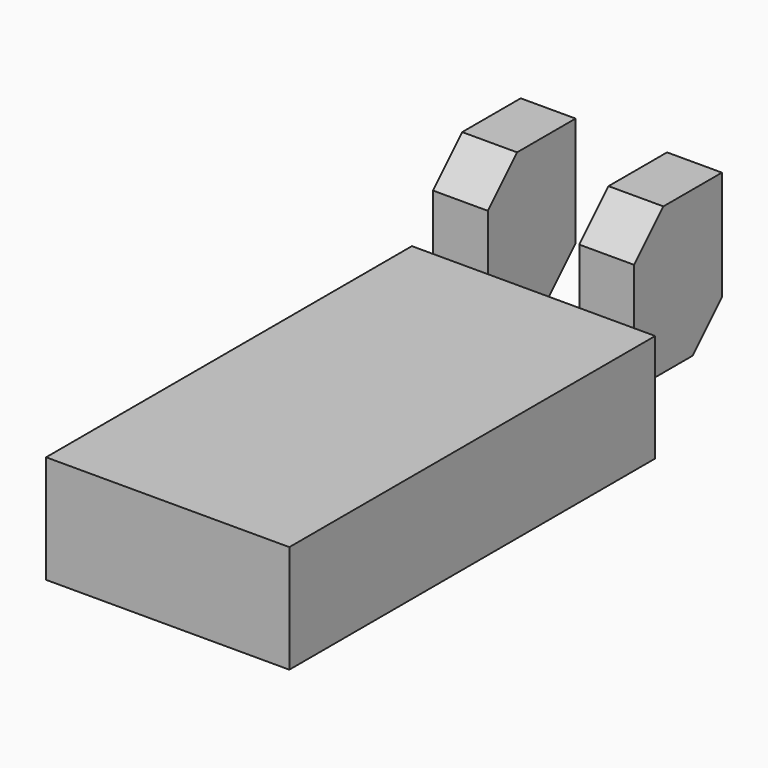
from build123d import *

# Parameters (mm, degrees)
F0_W     = 13.3
F0_H     = 5.9
F1_DEPTH = 25
F2_W     = 3
F2_H     = 8
F3_DEPTH = 6
F4_SIZE  = 2


with BuildPart() as f1:
    # F0 (on Front) → F1 (new body)
    with BuildSketch(Plane.XZ):
        Rectangle(F0_W, F0_H)
    extrude(amount=F1_DEPTH)

    # F2 (on Front) → F3 (join)
    with BuildSketch(Plane.XZ):
        with Locations((-4, 4)):
            Rectangle(F2_W, F2_H)
        with Locations((4, 4)):
            Rectangle(F2_W, F2_H)
    extrude(amount=-F3_DEPTH)

    # F4
    f4_edges = [f1.edges().sort_by_distance(p)[0] for p in [
        (-4, 0, 8),
        (4, 0, 8),
        (4, 6, 0),
        (-4, 6, 0),
    ]]
    chamfer(f4_edges, length=F4_SIZE)


solid = f1.part
